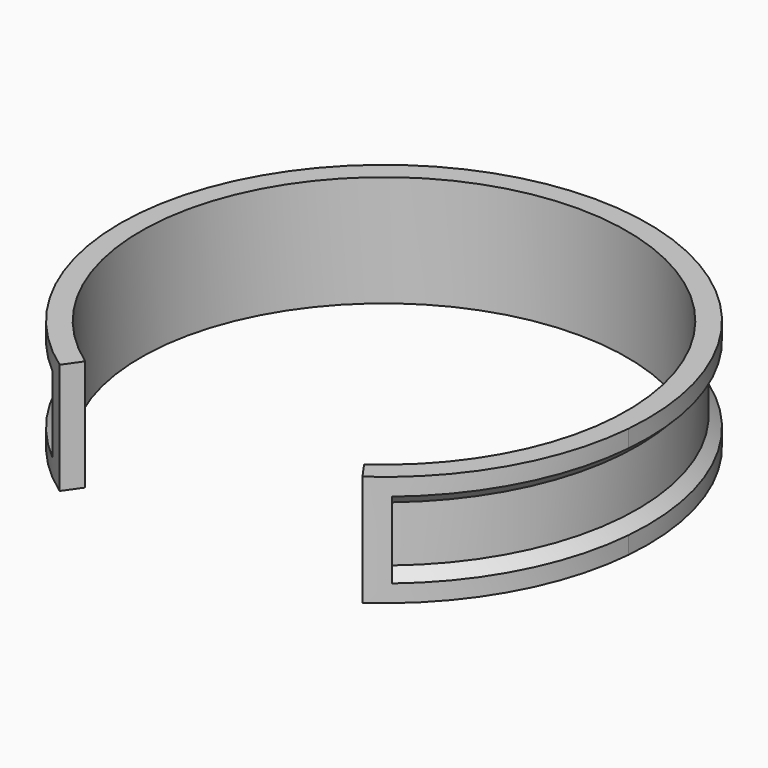
from build123d import *

# Parameters (mm, degrees)
F1_DEPTH      = 16
F4_ANGLE_BACK = 140
F4_ANGLE      = 280


with BuildPart() as f1:
    # F0 (on Top) → F1 (new body)
    with BuildSketch(Plane.XY):
        with BuildLine():
            Line((20.0751752723, -28.6703215501), (21.7959045813, -31.127777683))
            ThreePointArc((21.7959045813, -31.127777683), (32.9089653438, -19), (37.8553985275, -3.3119182244))
            ThreePointArc((37.8553985275, -3.3119182244), (32.9089653438, 19), (16.0594939461, 34.4396959074))
            ThreePointArc((16.0594939461, 34.4396959074), (0, 38), (-16.0594939461, 34.4396959074))
            ThreePointArc((-16.0594939461, 34.4396959074), (-32.9089653438, 19), (-37.8553985275, -3.3119182244))
            ThreePointArc((-37.8553985275, -3.3119182244), (-32.9089653438, -19), (-21.7959045813, -31.127777683))
            Line((-21.7959045813, -31.127777683), (-20.0751752723, -28.6703215501))
            ThreePointArc((-20.0751752723, -28.6703215501), (0, 35), (20.0751752723, -28.6703215501))
        make_face()
    extrude(amount=F1_DEPTH)

    # F3 (on Right) → F4 (revolve, cut)
    with BuildSketch(Plane.YZ, mode=Mode.PRIVATE) as f4_sk:
        Polygon((42.4908541927, 14.641066667), (38, 14.4704658035), (38, 13.5), (36.5, 12), (36.5, 4), (38, 2.5), (38, 0), (42.4908541927, 0), align=None)
    revolve(f4_sk.sketch.rotate(Axis((0, 0, 11.2814381719), (0, 0, -1)), -F4_ANGLE_BACK), axis=Axis((0, 0, 11.2814381719), (0, 0, -1)), revolution_arc=F4_ANGLE, mode=Mode.SUBTRACT)


solid = f1.part
